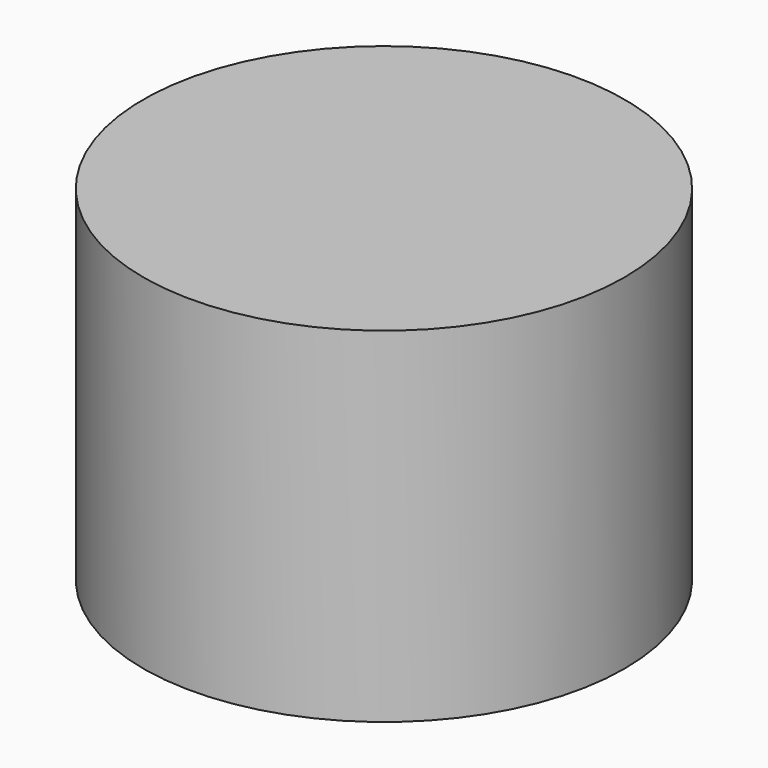
from build123d import *

# Parameters (mm, degrees)
F1_R     = 38.686025
F2_DEPTH = 55.372


with BuildPart() as f2:
    # F1 (on offset) → F2 (new body)
    with BuildSketch(Plane.XY.offset(90.424)):
        with Locations((35.82168, -30.042855)):
            Circle(F1_R)
    extrude(amount=F2_DEPTH)


solid = f2.part
